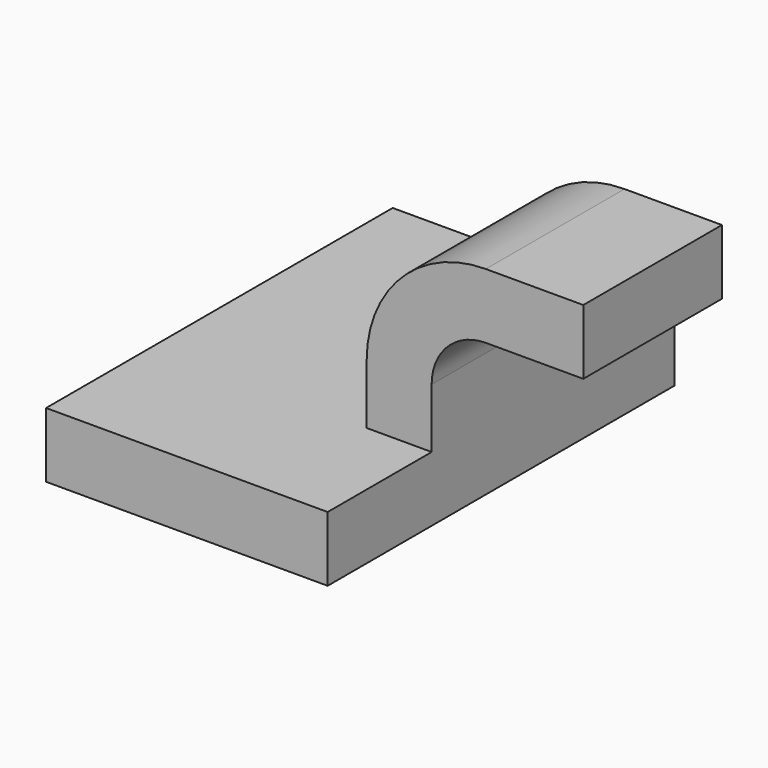
from build123d import *

# Parameters (mm, degrees)
F1_DEPTH = 63.5
F0_W     = 25.4
F0_H     = 19.05
F2_DEPTH = 25.4


with BuildPart() as f1:
    # F0 (on Front) → F1 (new body, symmetric)
    with BuildSketch(Plane.XZ):
        Polygon((41.275, -9.525), (41.275, 9.525), (22.225, 9.525), (-41.275, 9.525), (-41.275, -9.525), align=None)
    extrude(amount=F1_DEPTH, both=True)

    # F0 (on Front) → F2 (join, symmetric)
    with BuildSketch(Plane.XZ):
        with BuildLine():
            Line((22.225, 9.525), (41.275, 9.525))
            Line((41.275, 9.525), (41.275, 26.9875))
            ThreePointArc((41.275, 26.9875), (45.92468, 38.21282), (57.15, 42.8625))
            Line((57.15, 42.8625), (60.325, 42.8625))
            Line((60.325, 42.8625), (60.325, 61.9125))
            Line((60.325, 61.9125), (57.15, 61.9125))
            ThreePointArc((57.15, 61.9125), (32.454296, 51.683204), (22.225, 26.9875))
            Line((22.225, 26.9875), (22.225, 9.525))
        make_face()
        with Locations((73.025, 52.3875)):
            Rectangle(F0_W, F0_H)
    extrude(amount=F2_DEPTH, both=True)


solid = f1.part
